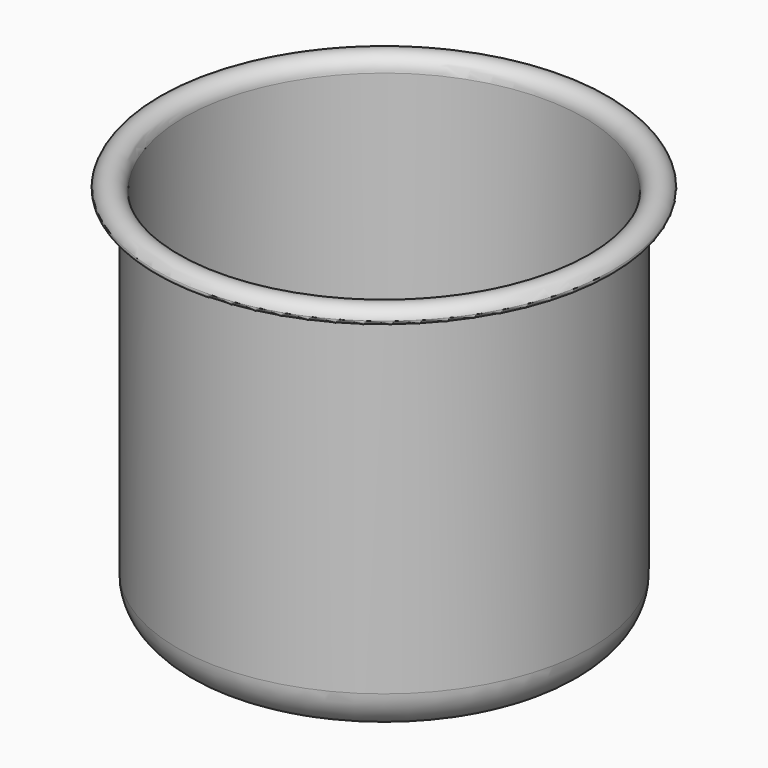
from build123d import *


with BuildPart() as f1:
    # F0 (on Front) → F1 (revolve)
    with BuildSketch(Plane.XZ):
        with BuildLine():
            Line((0, 2), (0, 0))
            Line((0, 0), (49, 0))
            ThreePointArc((49, 0), (57.485281, 3.514719), (61, 12))
            Line((61, 12), (61, 93.988203))
            Line((61, 93.988203), (61, 110.75))
            Line((61, 110.75), (59, 110.75))
            Line((59, 110.75), (59, 12))
            ThreePointArc((59, 12), (56.071068, 4.928932), (49, 2))
            Line((49, 2), (0, 2))
        make_face()
        with BuildLine():
            ThreePointArc((67.293815, 112.057692), (62.588076, 114.948137), (59, 110.75))
            Line((59, 110.75), (61, 110.75))
            ThreePointArc((61, 110.75), (62.89957, 112.972543), (65.390843, 111.442308))
            ThreePointArc((65.390843, 111.442308), (65.753981, 110.941392), (66.342329, 110.75))
            ThreePointArc((66.342329, 110.75), (67.150937, 111.161652), (67.293815, 112.057692))
        make_face()
    revolve(axis=Axis((0, 0, 49.928845), (0, 0, 1)))


solid = f1.part
